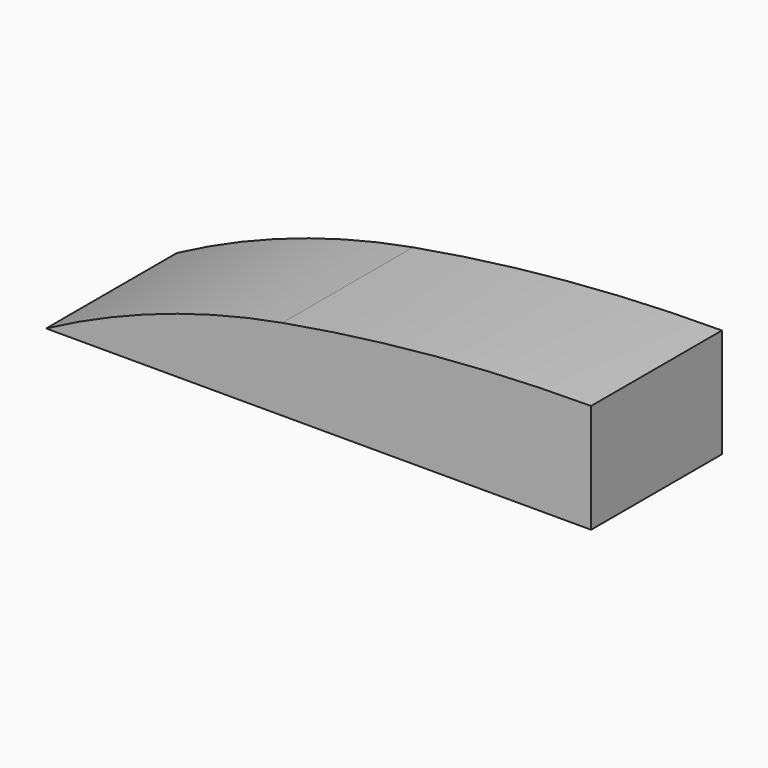
from build123d import *

# Parameters (mm, degrees)
F1_DEPTH = 9


with BuildPart() as f1:
    # F0 (on Front) → F1 (new body)
    with BuildSketch(Plane.XZ):
        with BuildLine():
            ThreePointArc((13, 4.5), (6.322751, 2.762051), (0, 0))
            Line((0, 0), (30, 0))
            Line((30, 0), (30, 6))
            ThreePointArc((30, 6), (21.466976, 5.624273), (13, 4.5))
        make_face()
    extrude(amount=F1_DEPTH)


solid = f1.part
